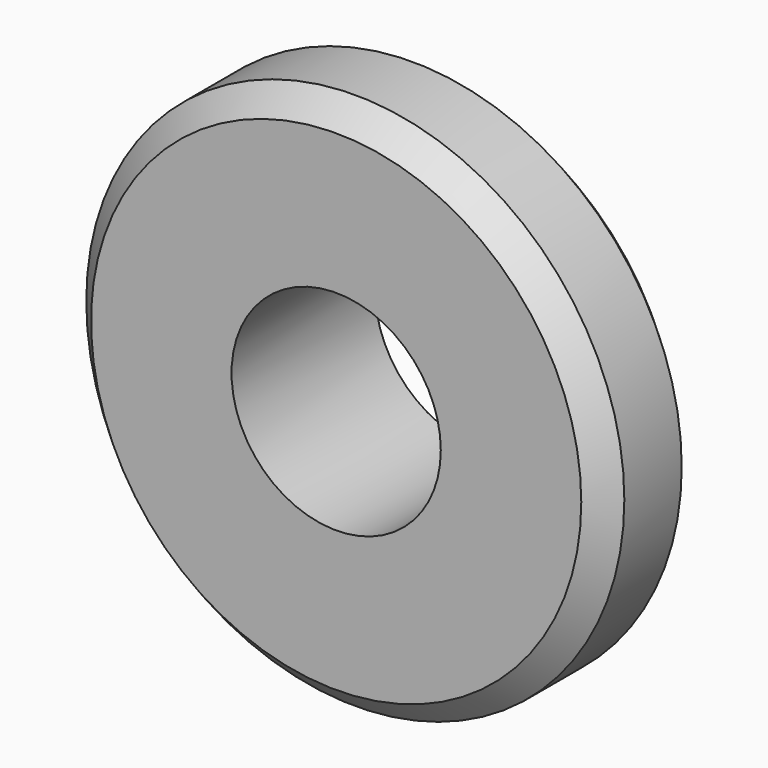
from build123d import *

# Parameters (mm, degrees)
F0_R     = 2.75
F0_R_2   = 1.75
F1_DEPTH = 1
F2_R     = 4.5
F2_R_2   = 2.75
F2_R_3   = 1.75
F3_DEPTH = 2
F4_SIZE  = 0.4


with BuildPart() as f1:
    # F0 (on Front) → F1 (new body)
    with BuildSketch(Plane.XZ):
        Circle(F0_R)
        Circle(F0_R_2, mode=Mode.SUBTRACT)
    extrude(amount=F1_DEPTH)

    # F2 (on face) → F3 (join)
    with BuildSketch(Plane.XZ.offset(1)):
        Circle(F2_R)
        Circle(F2_R_2, mode=Mode.SUBTRACT)
        Circle(F2_R_2)
        Circle(F2_R_3, mode=Mode.SUBTRACT)
    extrude(amount=F3_DEPTH)

    # F4
    f4_edges = [f1.edges().sort_by_distance(p)[0] for p in [
        (-4.5, -3, 0),
        (-4.5, -1, 0),
    ]]
    chamfer(f4_edges, length=F4_SIZE)


solid = f1.part
